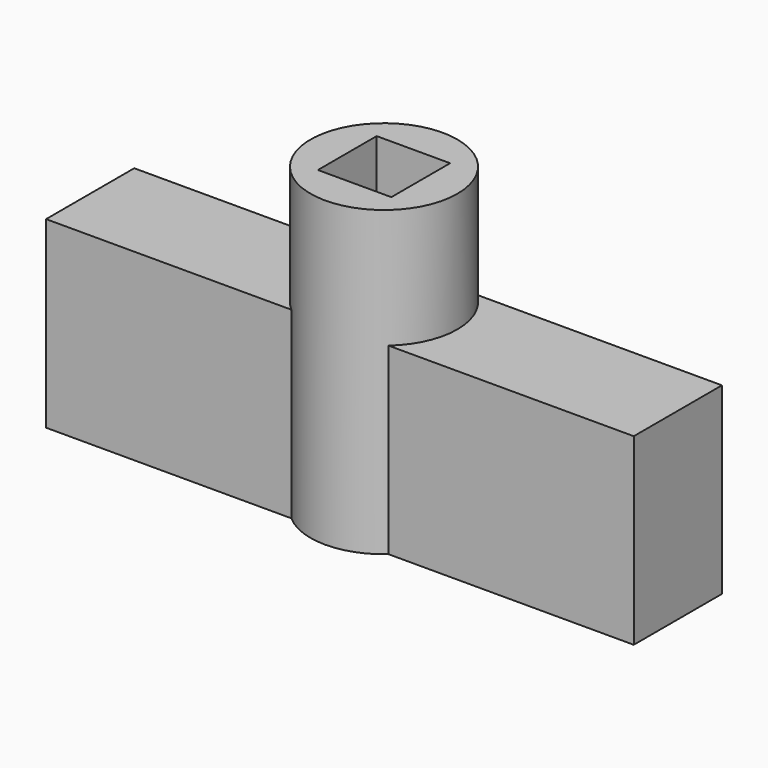
from build123d import *

# Parameters (mm, degrees)
BOX001_W       = 2
BOX001_H       = 2
BOX001_DEPTH   = 10
BOX_W          = 16
BOX_H          = 3
BOX_DEPTH      = 5
CYLINDER_R     = 2
CYLINDER_DEPTH = 8.25


with BuildPart() as cube001:
    # Box001 → Box001 (new body)
    with BuildSketch(Plane(origin=(-1, -1, 0), x_dir=(1, 0, 0), z_dir=(0, 0, 1))):
        with Locations((1, 1)):
            Rectangle(BOX001_W, BOX001_H)
    extrude(amount=BOX001_DEPTH)


with BuildPart() as cube:
    # Box → Box (new body)
    with BuildSketch(Plane(origin=(-8, -1.5, 0), x_dir=(1, 0, 0), z_dir=(0, 0, 1))):
        with Locations((8, 1.5)):
            Rectangle(BOX_W, BOX_H)
    extrude(amount=BOX_DEPTH)


with BuildPart() as cut:
    # Cylinder → Cylinder (new body)
    with BuildSketch(Plane.XY):
        Circle(CYLINDER_R)
    extrude(amount=CYLINDER_DEPTH)

    # Fusion: union Cube
    add(cube.part)

    # Cut: cut Cube001
    add(cube001.part, mode=Mode.SUBTRACT)


solid = cut.part
